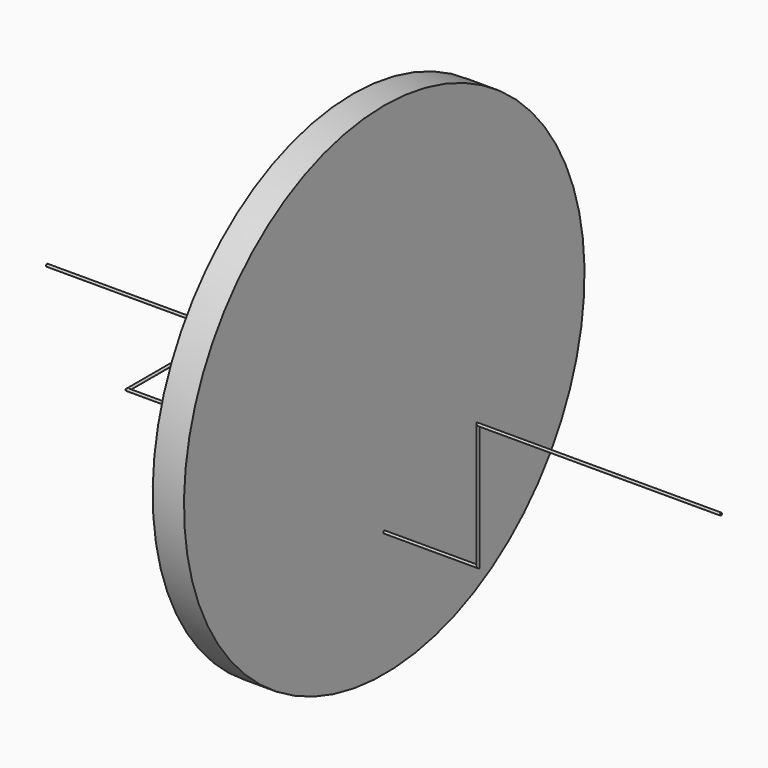
from build123d import *

# Parameters (mm, degrees)
F0_W = 6.35
F0_H = 50.8
F4_R = 0.254
F8_R = 0.254


with BuildPart() as f1:
    # F0 (on Front) → F1 (revolve)
    with BuildSketch(Plane.XZ):
        with Locations((3.175, 25.4)):
            Rectangle(F0_W, F0_H)
    revolve(axis=Axis((3.175, 0, 0), (1, 0, 0)))

    # F5: sweep along a path in F2
    with BuildLine(Plane.XY) as f5_path:
        Line((0, -25.4), (-25.4, -25.4))
        Line((-25.4, -25.4), (-25.4, 0))
        Line((-25.4, 0), (-62.0676704339, 0))
    # F4 (on offset) → F5 (sweep)
    with BuildSketch(Plane.YZ.offset(-33.02)):
        Circle(F4_R)
    sweep(path=f5_path.line, transition=Transition.RIGHT)

    # F9: sweep along a path in F6
    with BuildLine(Plane.XZ) as f9_path:
        Line((74.6657835295, 0), (25.4, 0))
        Line((25.4, 0), (25.4, -25.4))
        Line((25.4, -25.4), (0, -25.4))
    # F8 (on offset) → F9 (sweep)
    with BuildSketch(Plane.YZ.offset(33.02)):
        Circle(F8_R)
    sweep(path=f9_path.line, transition=Transition.RIGHT)


solid = f1.part
